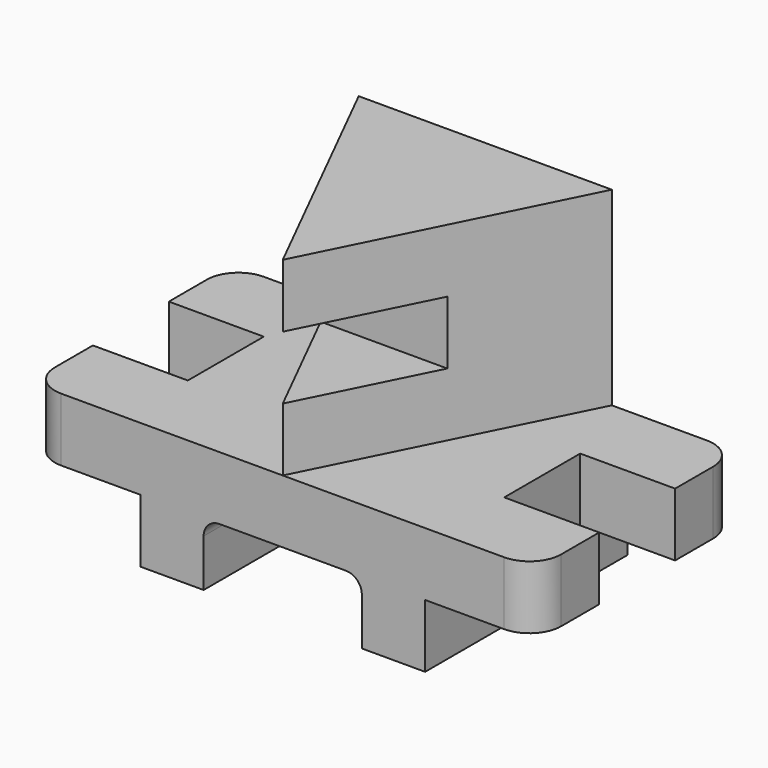
from build123d import *

# Parameters (mm, degrees)
F1_DEPTH = 38.1
F2_DEPTH = 12.7
F4_DEPTH = 25.4
F6_DEPTH = 101.608358


with BuildPart() as f1:
    # F0 (on Top) → F1 (new body, symmetric)
    with BuildSketch(Plane.XY):
        Polygon((25.4, -50.8), (-25.4, -50.8), (0, -101.6), align=None)
        Polygon((50.8, 0), (-50.8, 0), (-25.4, -50.8), (25.4, -50.8), align=None)
    extrude(amount=F1_DEPTH, both=True)

    # F0 (on Top) → F2 (cut, symmetric)
    with BuildSketch(Plane.XY):
        Polygon((25.4, -50.8), (-25.4, -50.8), (0, -101.6), align=None)
    extrude(amount=F2_DEPTH, both=True, mode=Mode.SUBTRACT)

    # F3 (on face) → F4 (join)
    with BuildSketch(Plane(origin=(0, 0, -38.1), x_dir=(1, 0, 0), z_dir=(0, 0, -1))):
        Polygon((0, 101.6), (-50.8, 0), (50.8, 0), align=None)
        with BuildLine():
            ThreePointArc((-101.6, 12.7), (-97.880256, 3.719744), (-88.9, 0))
            Line((-88.9, 0), (-50.8, 0))
            Line((-50.8, 0), (0, 101.6))
            Line((0, 101.6), (50.8, 0))
            Line((50.8, 0), (88.9, 0))
            ThreePointArc((88.9, 0), (97.880256, 3.719744), (101.6, 12.7))
            Line((101.6, 12.7), (101.6, 31.75))
            Line((101.6, 31.75), (63.5, 31.75))
            Line((63.5, 31.75), (63.5, 69.858358))
            Line((63.5, 69.858358), (101.6, 69.858358))
            Line((101.6, 69.858358), (101.6, 88.908358))
            ThreePointArc((101.6, 88.908358), (97.880256, 97.888614), (88.9, 101.608358))
            Line((88.9, 101.608358), (-88.9, 101.608358))
            ThreePointArc((-88.9, 101.608358), (-97.880256, 97.888614), (-101.6, 88.908358))
            Line((-101.6, 88.908358), (-101.6, 69.858358))
            Line((-101.6, 69.858358), (-63.5, 69.858358))
            Line((-63.5, 69.858358), (-63.5, 31.75))
            Line((-63.5, 31.75), (-101.6, 31.75))
            Line((-101.6, 31.75), (-101.6, 12.7))
        make_face()
    extrude(amount=F4_DEPTH)

    # F5 (on face) → F6 (join, through all)
    with BuildSketch(Plane.XZ.offset(101.608358)):
        Polygon((-31.75, -63.5), (-57.15, -63.5), (-57.15, -88.9), (-31.75, -88.9), (-31.75, -69.85), align=None)
        with BuildLine():
            Line((-25.4, -63.5), (-31.75, -63.5))
            Line((-31.75, -63.5), (-31.75, -69.85))
            ThreePointArc((-31.75, -69.85), (-29.890128, -65.359872), (-25.4, -63.5))
        make_face()
        with BuildLine():
            Line((31.75, -63.5), (25.4, -63.5))
            ThreePointArc((25.4, -63.5), (29.890128, -65.359872), (31.75, -69.85))
            Line((31.75, -69.85), (31.75, -63.5))
        make_face()
        Polygon((31.75, -63.5), (31.75, -69.85), (31.75, -88.9), (57.15, -88.9), (57.15, -63.5), align=None)
    extrude(amount=-F6_DEPTH)


solid = f1.part
